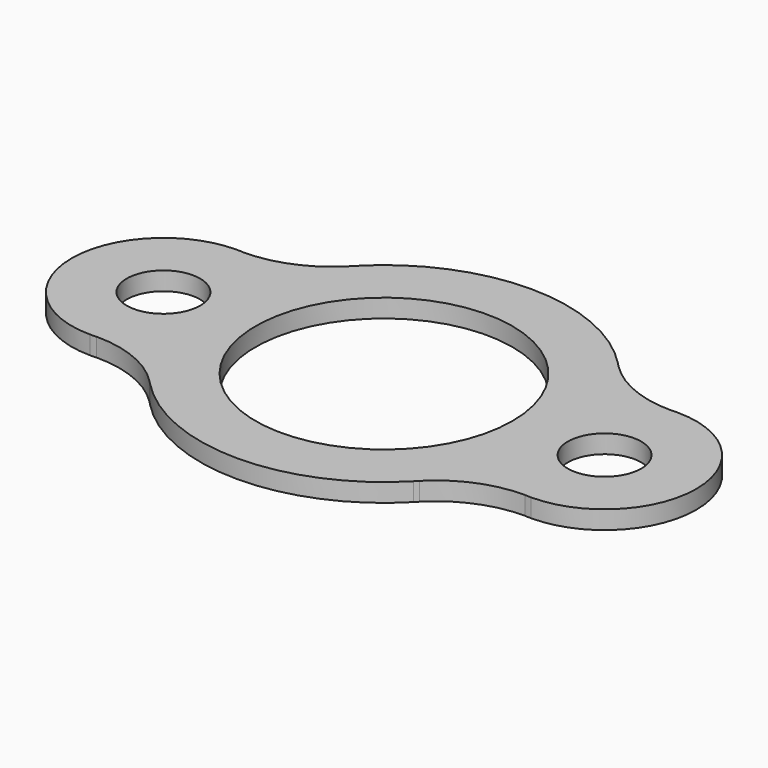
from build123d import *

# Parameters (mm, degrees)
F0_R     = 12.7
F0_R_2   = 44.45
F1_DEPTH = 6.35
F2_DEPTH = 6.35


with BuildPart() as f1:
    # F0 (on Top) → F1 (new body)
    with BuildSketch(Plane.XY):
        with BuildLine():
            ThreePointArc((-74.086042, -31.671685), (-59.255851, -34.570734), (-46.719019, -43.006782))
            ThreePointArc((-46.719019, -43.006782), (-46.143146, -43.603071), (-45.580383, -44.211748))
            ThreePointArc((-45.580383, -44.211748), (0, -63.5), (45.580383, -44.211748))
            ThreePointArc((45.580383, -44.211748), (46.143146, -43.603071), (46.719019, -43.006782))
            ThreePointArc((46.719019, -43.006782), (59.255851, -34.570734), (74.086042, -31.671685))
            ThreePointArc((74.086042, -31.671685), (75.188385, -31.694894), (76.289594, -31.74999))
            ThreePointArc((76.289594, -31.74999), (108.064688, 0), (76.289594, 31.74999))
            ThreePointArc((76.289594, 31.74999), (75.188385, 31.694894), (74.086042, 31.671685))
            ThreePointArc((74.086042, 31.671685), (59.255851, 34.570734), (46.719019, 43.006782))
            ThreePointArc((46.719019, 43.006782), (46.143146, 43.603071), (45.580383, 44.211748))
            ThreePointArc((45.580383, 44.211748), (0, 63.5), (-45.580383, 44.211748))
            ThreePointArc((-45.580383, 44.211748), (-46.143146, 43.603071), (-46.719019, 43.006782))
            ThreePointArc((-46.719019, 43.006782), (-59.255851, 34.570734), (-74.086042, 31.671685))
            ThreePointArc((-74.086042, 31.671685), (-75.188385, 31.694894), (-76.289594, 31.74999))
            ThreePointArc((-76.289594, 31.74999), (-108.064688, 0), (-76.289594, -31.74999))
            ThreePointArc((-76.289594, -31.74999), (-75.188385, -31.694894), (-74.086042, -31.671685))
        make_face()
        with Locations((-76.314688, 0)):
            Circle(F0_R, mode=Mode.SUBTRACT)
        Circle(F0_R_2, mode=Mode.SUBTRACT)
        with Locations((76.314688, 0)):
            Circle(F0_R, mode=Mode.SUBTRACT)
    extrude(amount=F1_DEPTH)

    # F0 (on Top) → F2 (join)
    with BuildSketch(Plane.XY):
        with BuildLine():
            ThreePointArc((-45.580383, -44.211748), (-46.143146, -43.603071), (-46.719019, -43.006782))
            ThreePointArc((-46.719019, -43.006782), (-46.153633, -43.612981), (-45.580383, -44.211748))
        make_face()
        with BuildLine():
            ThreePointArc((-74.086042, -31.671685), (-59.255851, -34.570734), (-46.719019, -43.006782))
            ThreePointArc((-46.719019, -43.006782), (-46.143146, -43.603071), (-45.580383, -44.211748))
            ThreePointArc((-45.580383, -44.211748), (0, -63.5), (45.580383, -44.211748))
            ThreePointArc((45.580383, -44.211748), (46.143146, -43.603071), (46.719019, -43.006782))
            ThreePointArc((46.719019, -43.006782), (59.255851, -34.570734), (74.086042, -31.671685))
            ThreePointArc((74.086042, -31.671685), (75.188385, -31.694894), (76.289594, -31.74999))
            ThreePointArc((76.289594, -31.74999), (108.064688, 0), (76.289594, 31.74999))
            ThreePointArc((76.289594, 31.74999), (75.188385, 31.694894), (74.086042, 31.671685))
            ThreePointArc((74.086042, 31.671685), (59.255851, 34.570734), (46.719019, 43.006782))
            ThreePointArc((46.719019, 43.006782), (46.143146, 43.603071), (45.580383, 44.211748))
            ThreePointArc((45.580383, 44.211748), (0, 63.5), (-45.580383, 44.211748))
            ThreePointArc((-45.580383, 44.211748), (-46.143146, 43.603071), (-46.719019, 43.006782))
            ThreePointArc((-46.719019, 43.006782), (-59.255851, 34.570734), (-74.086042, 31.671685))
            ThreePointArc((-74.086042, 31.671685), (-75.188385, 31.694894), (-76.289594, 31.74999))
            ThreePointArc((-76.289594, 31.74999), (-108.064688, 0), (-76.289594, -31.74999))
            ThreePointArc((-76.289594, -31.74999), (-75.188385, -31.694894), (-74.086042, -31.671685))
        make_face()
        with Locations((-76.314688, 0)):
            Circle(F0_R, mode=Mode.SUBTRACT)
        Circle(F0_R_2, mode=Mode.SUBTRACT)
        with Locations((76.314688, 0)):
            Circle(F0_R, mode=Mode.SUBTRACT)
        with BuildLine():
            ThreePointArc((-76.289594, -31.74999), (-75.187138, -31.729972), (-74.086042, -31.671685))
            ThreePointArc((-74.086042, -31.671685), (-75.188385, -31.694894), (-76.289594, -31.74999))
        make_face()
        with BuildLine():
            ThreePointArc((46.719019, -43.006782), (46.143146, -43.603071), (45.580383, -44.211748))
            ThreePointArc((45.580383, -44.211748), (46.153633, -43.612981), (46.719019, -43.006782))
        make_face()
        with BuildLine():
            ThreePointArc((-74.086042, 31.671685), (-75.187138, 31.729972), (-76.289594, 31.74999))
            ThreePointArc((-76.289594, 31.74999), (-75.188385, 31.694894), (-74.086042, 31.671685))
        make_face()
        with BuildLine():
            ThreePointArc((76.289594, -31.74999), (75.188385, -31.694894), (74.086042, -31.671685))
            ThreePointArc((74.086042, -31.671685), (75.187138, -31.729972), (76.289594, -31.74999))
        make_face()
        with BuildLine():
            ThreePointArc((-45.580383, 44.211748), (-46.153633, 43.612981), (-46.719019, 43.006782))
            ThreePointArc((-46.719019, 43.006782), (-46.143146, 43.603071), (-45.580383, 44.211748))
        make_face()
        with BuildLine():
            ThreePointArc((74.086042, 31.671685), (75.188385, 31.694894), (76.289594, 31.74999))
            ThreePointArc((76.289594, 31.74999), (75.187138, 31.729972), (74.086042, 31.671685))
        make_face()
        with BuildLine():
            ThreePointArc((46.719019, 43.006782), (46.153633, 43.612981), (45.580383, 44.211748))
            ThreePointArc((45.580383, 44.211748), (46.143146, 43.603071), (46.719019, 43.006782))
        make_face()
    extrude(amount=F2_DEPTH)

    # F3: F1 across plane


with BuildPart() as f1_1:
    add(f1.part)
    add(f1.part.mirror(Plane.YZ))

    # F4: F1 across plane


with BuildPart() as f1_2:
    add(f1_1.part)
    add(f1_1.part.mirror(Plane.XZ))


solid = f1_2.part
